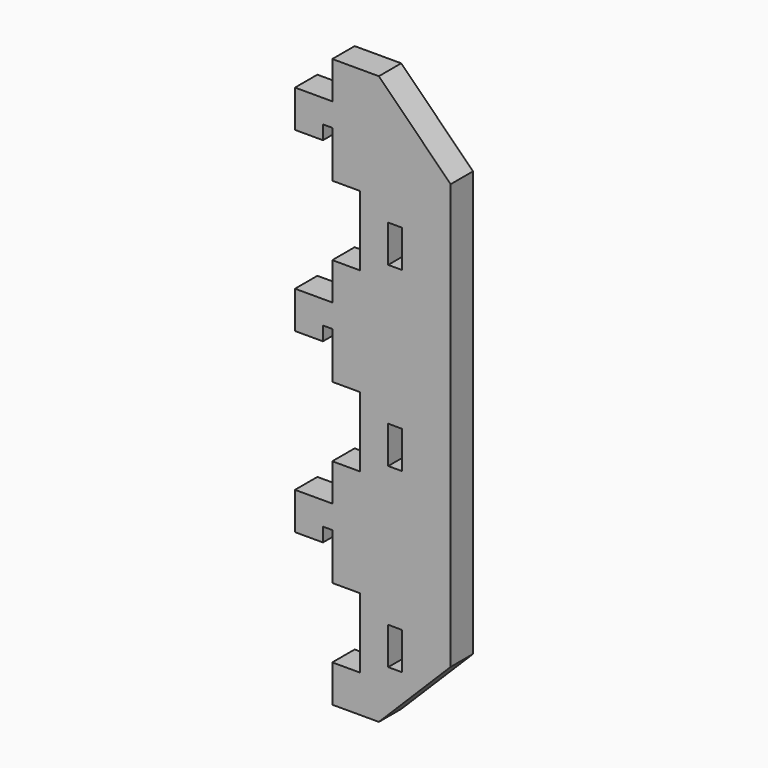
from build123d import *

# Parameters (mm, degrees)
F0_W     = 3
F0_H     = 8
F1_DEPTH = 6


with BuildPart() as f1:
    # F0 (on Front) → F1 (new body)
    with BuildSketch(Plane.XZ):
        Polygon((0, 46), (0, 38), (-8, 38), (-8, 30), (-2, 30), (-2, 33), (0, 33), (0, 23), (6, 23), (6, 8), (0, 8), (0, 0), (10, 0), (25.4, 15.4), (25.4, 106.6), (10, 122), (0, 122), (0, 114), (-8, 114), (-8, 106), (-2, 106), (-2, 109), (0, 109), (0, 99), (6, 99), (6, 84), (0, 84), (0, 76), (-8, 76), (-8, 68), (-2, 68), (-2, 71), (0, 71), (0, 61), (6, 61), (6, 46), align=None)
        with Locations((13.5, 15)):
            Rectangle(F0_W, F0_H, mode=Mode.SUBTRACT)
        with Locations((13.5, 53)):
            Rectangle(F0_W, F0_H, mode=Mode.SUBTRACT)
        with Locations((13.5, 91)):
            Rectangle(F0_W, F0_H, mode=Mode.SUBTRACT)
    extrude(amount=F1_DEPTH)


solid = f1.part
